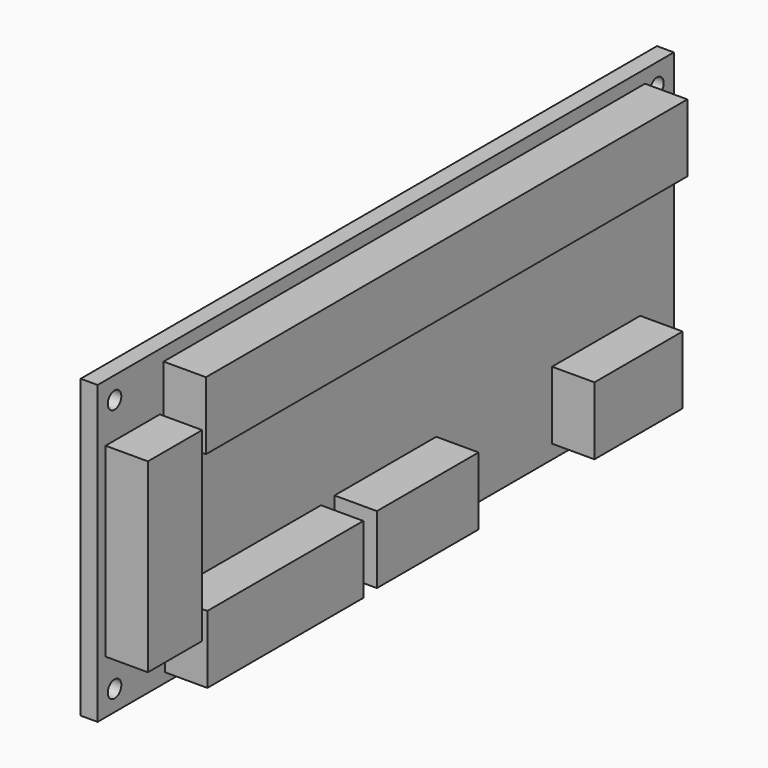
from build123d import *

# Parameters (mm, degrees)
SKETCH_W      = 85
SKETCH_H      = 35
SKETCH_R      = 1
PAD_DEPTH     = 2
SKETCH001_W   = 13
SKETCH001_H   = 8
SKETCH001_W_2 = 8
SKETCH001_H_2 = 21.912057
SKETCH001_W_3 = 71
SKETCH001_W_4 = 15
SKETCH001_W_5 = 23
PAD001_DEPTH  = 5


with BuildPart() as part:
    # Sketch → Pad (new body)
    with BuildSketch(Plane.YZ):
        with Locations((42.5, 17.5)):
            Rectangle(SKETCH_W, SKETCH_H)
        with Locations((2.5, 32.416278)):
            Circle(SKETCH_R, mode=Mode.SUBTRACT)
        with Locations((82.5, 32.416278)):
            Circle(SKETCH_R, mode=Mode.SUBTRACT)
        with Locations((82.5, 2.416278)):
            Circle(SKETCH_R, mode=Mode.SUBTRACT)
        with Locations((2.5, 2.416278)):
            Circle(SKETCH_R, mode=Mode.SUBTRACT)
    extrude(amount=PAD_DEPTH)

    # Sketch001 (on Face10 of Pad) → Pad001 (join)
    with BuildSketch(Plane.YZ.offset(2)):
        with Locations((73.531729, 5.652397)):
            Rectangle(SKETCH001_W, SKETCH001_H)
        with Locations((5.173597, 17.259363)):
            Rectangle(SKETCH001_W_2, SKETCH001_H_2)
        with Locations((45.234558, 29.475365)):
            Rectangle(SKETCH001_W_3, SKETCH001_H)
        with Locations((42.446848, 5.317278)):
            Rectangle(SKETCH001_W_4, SKETCH001_H)
        with Locations((21.441039, 5.114811)):
            Rectangle(SKETCH001_W_5, SKETCH001_H)
    extrude(amount=PAD001_DEPTH)


solid = part.part
